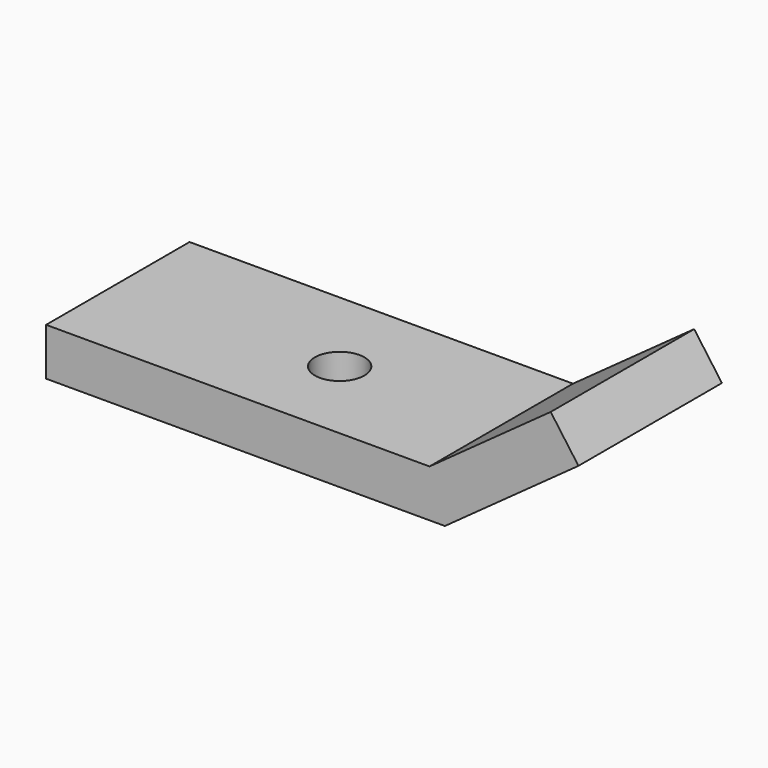
from build123d import *

# Parameters (mm, degrees)
F2_DEPTH = 9.6012
F4_R     = 2.651404
F5_DEPTH = 14.442066


with BuildPart() as f2:
    # F0 (on Front) → F2 (new body, symmetric)
    with BuildSketch(Plane.XZ):
        Polygon((-38.698264, -2.173279), (-38.698264, -7.253279), (4.001727, -7.253279), (18.306882, 3.068162), (15.334494, 7.187787), (2.360385, -2.173279), align=None)
    extrude(amount=F2_DEPTH, both=True)

    # F4 (on face) → F5 (cut, through all)
    with BuildSketch(Plane(origin=(0, 0, -7.253279), x_dir=(1, 0, 0), z_dir=(0, 0, -1))):
        with Locations((-14.824438, 0.150216)):
            Circle(F4_R)
    extrude(amount=-F5_DEPTH, mode=Mode.SUBTRACT)


solid = f2.part
